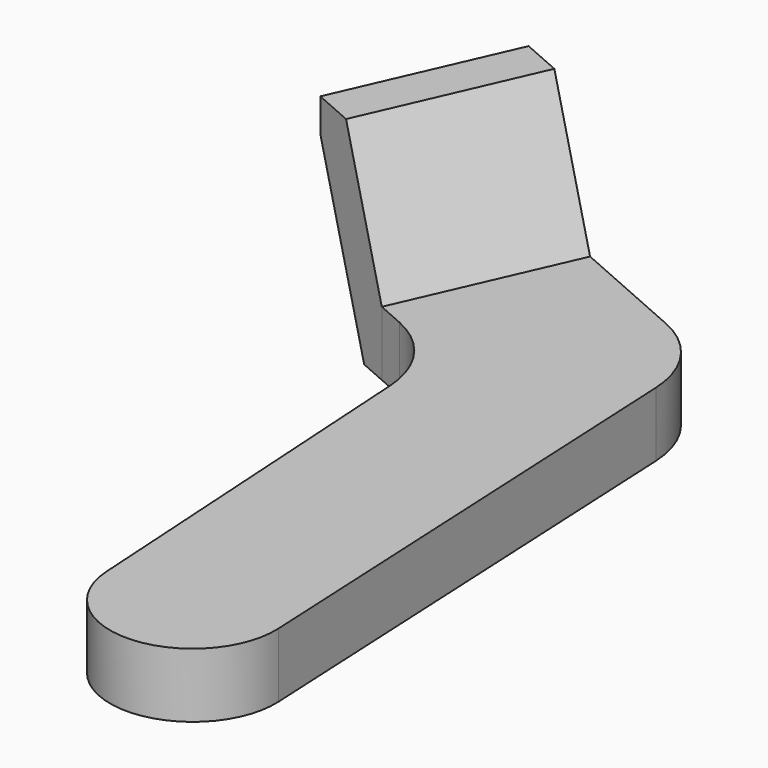
from build123d import *

# Parameters (mm, degrees)
F1_DEPTH  = 3.175
F2_R      = 5.08
F3_R      = 5.08
F5_W      = 3.3427421004
F5_H      = 2.6986296289
F6_DEPTH  = 1.27
F7_R      = 1.27
F8_D      = 1.27
F10_DEPTH = 9.0390737111


with BuildPart() as f1:
    # F0 (on Top) → F1 (new body)
    with BuildSketch(Plane.XY):
        with BuildLine():
            Line((-5.9569855221, 31.7706279457), (-9.597370401, 23.4970282763))
            Line((-9.597370401, 23.4970282763), (-5.4328427644, 21.6646356006))
            Line((-5.4328427644, 21.6646356006), (-4.0882331564, -0.3526416028))
            ThreePointArc((-4.0882331564, -0.3526416028), (0.1973930726, -4.1691933566), (4.0409927589, 0.0921915022))
            Line((4.0409927589, 0.0921915022), (2.6926789221, 27.9647745192))
            Line((2.6926789221, 27.9647745192), (-5.9569855221, 31.7706279457))
        make_face()
    extrude(amount=F1_DEPTH)

    # F2
    f2_edges = [f1.edges().sort_by_distance(p)[0] for p in [
        (2.692679, 27.964775, 1.5875),
    ]]
    fillet(f2_edges, radius=F2_R)

    # F3
    f3_edges = [f1.edges().sort_by_distance(p)[0] for p in [
        (-5.432843, 21.664636, 1.5875),
    ]]
    fillet(f3_edges, radius=F3_R)

    # F5 (on offset) → F6 (join)
    with BuildSketch(Plane(origin=(-15.5400163929, 6.8376091371, 0), x_dir=(-0.4027387092, -0.9153149906, 0), z_dir=(-0.9153149906, 0.4027387092, 0))):
        with Locations((-25.0095250085, -1.3493148144)):
            Rectangle(F5_W, F5_H)
    extrude(amount=-F6_DEPTH)

    # F7
    f7_edges = [f1.edges().sort_by_distance(p)[0] for p in [
        (-4.213362, 31.003294, -2.69863),
        (-5.559613, 27.943632, -2.69863),
    ]]
    fillet(f7_edges, radius=F7_R)

    # F8 (through all)
    with Locations(Plane(origin=(-15.5400163929, 6.8376091371, 0), x_dir=(-0.4027387092, -0.9153149906, 0), z_dir=(-0.9153149906, 0.4027387092, 0))):
        with Locations((-25.0095250085, -1.3493148144)):
            Hole(F8_D / 2)

    # F9 (on face) → F10 (join, through all)
    with BuildSketch(Plane(origin=(10.745480909, 24.4215406479, 0), x_dir=(-0.9153149906, 0.4027387092, 0), z_dir=(0.4027387092, 0.9153149906, 0))):
        Polygon((21.2154332548, 9.9458275363), (18.2477798373, 3.175), (18.2477798373, 0), (19.7086434315, 0), (23.350128904, 8.3082040392), (23.350128904, 9.9458275363), align=None)
    extrude(amount=-F10_DEPTH)


solid = f1.part
